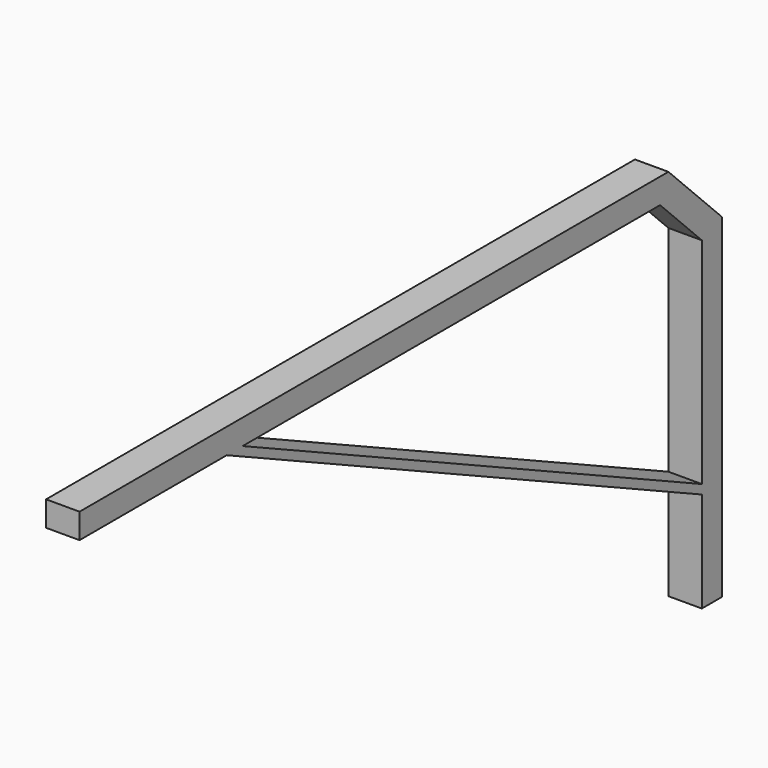
from build123d import *

# Parameters (mm, degrees)
F1_DEPTH = 25.4


with BuildPart() as f1:
    # F0 (on Right) → F1 (new body)
    with BuildSketch(Plane.YZ):
        Polygon((0, -50.8), (-50.8, 0), (-609.6, 0), (-609.6, -19.05), (-469.9, -19.05), (-454.834293, -19.05), (-58.690768, -19.05), (-19.05, -58.690768), (-19.05, -221.597629), (-19.05, -228.6), (-19.05, -304.8), (0, -304.8), align=None)
        Polygon((-454.834293, -19.05), (-469.9, -19.05), (-19.05, -228.6), (-19.05, -221.597629), align=None)
    extrude(amount=-F1_DEPTH)


solid = f1.part
